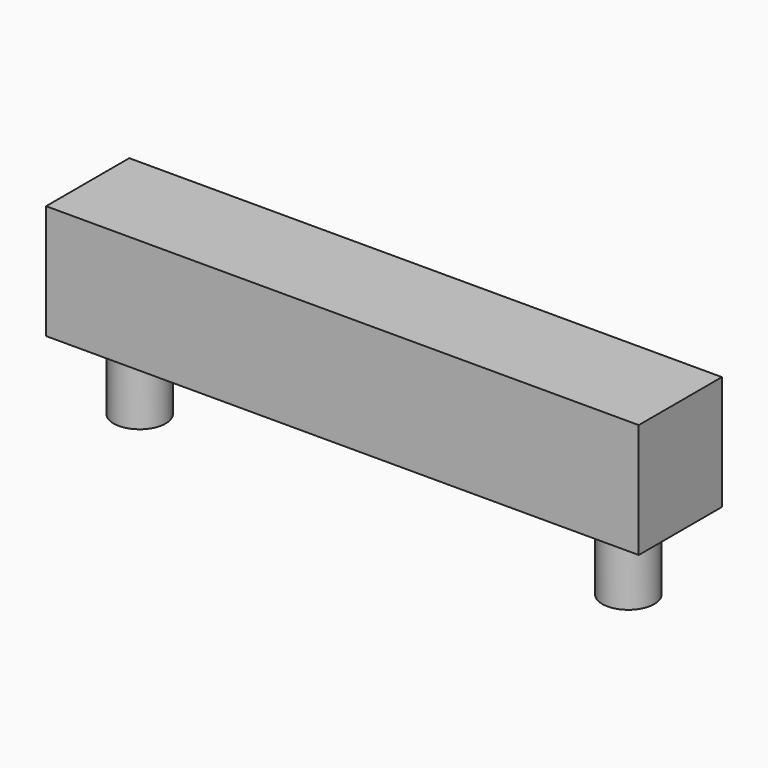
from build123d import *

# Parameters (mm, degrees)
F0_W     = 25.4
F0_H     = 12.7
F0_W_2   = 46.99
F1_DEPTH = 7.62
F3_DEPTH = 8.89
F4_DEPTH = 6.35


with BuildPart() as f1:
    # F0 (on Top) → F1 (new body)
    with BuildSketch(Plane.XY):
        with Locations((-12.7, 6.35)):
            Rectangle(F0_W, F0_H)
        with Locations((23.495, 6.35)):
            Rectangle(F0_W_2, F0_H)
    extrude(amount=F1_DEPTH)

    # F2 (on face) → F3 (join)
    with BuildSketch(Plane(origin=(0, 0, 0), x_dir=(1, 0, 0), z_dir=(0, 0, -1))):
        with BuildLine():
            ThreePointArc((-15.875, -6.35), (-19.05, -3.175), (-22.225, -6.35))
            Line((-22.225, -6.35), (-19.05, -6.35))
            Line((-19.05, -6.35), (-15.875, -6.35))
        make_face()
        with BuildLine():
            Line((-19.05, -6.35), (-22.225, -6.35))
            ThreePointArc((-22.225, -6.35), (-19.05, -9.525), (-15.875, -6.35))
            Line((-15.875, -6.35), (-19.05, -6.35))
        make_face()
        with BuildLine():
            Line((40.64, -6.35), (43.815, -6.35))
            ThreePointArc((43.815, -6.35), (40.64, -3.175), (37.465, -6.35))
            Line((37.465, -6.35), (40.64, -6.35))
        make_face()
        with BuildLine():
            ThreePointArc((37.465, -6.35), (40.64, -9.525), (43.815, -6.35))
            Line((43.815, -6.35), (40.64, -6.35))
            Line((40.64, -6.35), (37.465, -6.35))
        make_face()
    extrude(amount=F3_DEPTH)

    # F4 (add): a face of the model
    f4_faces = [f1.faces().sort_by_distance(p)[0] for p in [
        (10.795, 6.35, 7.62),
    ]]
    extrude(f4_faces, amount=F4_DEPTH)


solid = f1.part
